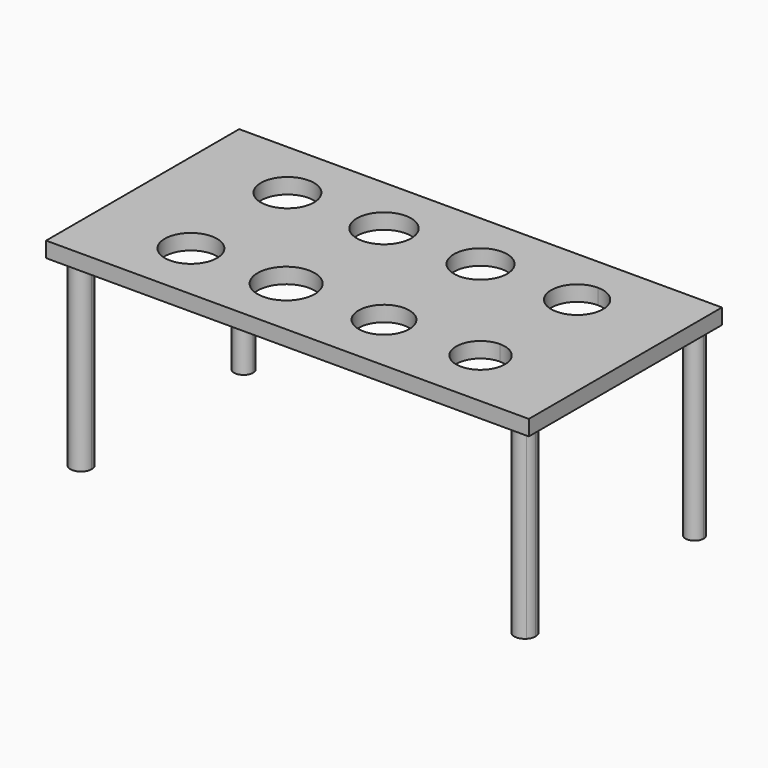
from build123d import *

# Parameters (mm, degrees)
F0_R     = 108.362779
F0_R_2   = 118.348055
F0_R_3   = 105.043241
F0_R_4   = 109.9634
F0_R_5   = 112.348658
F0_R_6   = 110.295193
F1_DEPTH = 64
F3_DEPTH = 766


with BuildPart() as f1:
    # F0 (on Top) → F1 (new body)
    with BuildSketch(Plane.XY):
        with BuildLine():
            Line((805.421073, 492.35415), (-794.578927, 492.35415))
            Line((-794.578927, 492.35415), (-794.578927, -507.64585))
            Line((-794.578927, -507.64585), (805.421073, -507.64585))
            Line((805.421073, -507.64585), (805.421073, -358.637687))
            ThreePointArc((805.421073, -358.637687), (704.429236, -257.64585), (805.421073, -156.654013))
            Line((805.421073, -156.654013), (805.421073, 135.004753))
            ThreePointArc((805.421073, 135.004753), (698.071676, 242.35415), (805.421073, 349.703548))
            Line((805.421073, 349.703548), (805.421073, 492.35415))
        make_face()
        with Locations((-394.578927, -257.64585)):
            Circle(F0_R, mode=Mode.SUBTRACT)
        with Locations((0, -257.64585)):
            Circle(F0_R_2, mode=Mode.SUBTRACT)
        with Locations((405.421073, -257.64585)):
            Circle(F0_R_3, mode=Mode.SUBTRACT)
        with Locations((-394.578927, 242.35415)):
            Circle(F0_R_4, mode=Mode.SUBTRACT)
        with Locations((5.421073, 242.35415)):
            Circle(F0_R_5, mode=Mode.SUBTRACT)
        with Locations((405.421073, 242.35415)):
            Circle(F0_R_6, mode=Mode.SUBTRACT)
        with BuildLine():
            Line((1205.421073, 492.35415), (805.421073, 492.35415))
            Line((805.421073, 492.35415), (805.421073, 349.703548))
            ThreePointArc((805.421073, 349.703548), (881.32856, 318.261637), (912.770471, 242.35415))
            ThreePointArc((912.770471, 242.35415), (881.32856, 166.446663), (805.421073, 135.004753))
            Line((805.421073, 135.004753), (805.421073, -156.654013))
            ThreePointArc((805.421073, -156.654013), (876.833086, -186.233837), (906.412911, -257.64585))
            ThreePointArc((906.412911, -257.64585), (876.833086, -329.057863), (805.421073, -358.637687))
            Line((805.421073, -358.637687), (805.421073, -507.64585))
            Line((805.421073, -507.64585), (1205.421073, -507.64585))
            Line((1205.421073, -507.64585), (1205.421073, 492.35415))
        make_face()
    extrude(amount=F1_DEPTH)

    # F2 (on face) → F3 (join)
    with BuildSketch(Plane(origin=(0, 0, 0), x_dir=(1, 0, 0), z_dir=(0, 0, -1))):
        with BuildLine():
            ThreePointArc((1178.770622, 439.583629), (1175.577452, 456.028556), (1166.462017, 470.083478))
            ThreePointArc((1166.462017, 470.083478), (1094.07873, 423.138702), (1178.770622, 439.583629))
        make_face()
        with BuildLine():
            ThreePointArc((1175.233859, -435.101897), (1102.844727, -422.241994), (1166.375205, -459.247966))
            ThreePointArc((1166.375205, -459.247966), (1172.949302, -447.961799), (1175.233859, -435.101897))
        make_face()
        with BuildLine():
            ThreePointArc((-674.628692, 421.169162), (-700.604043, 461.4775), (-748.043113, 454.476385))
            ThreePointArc((-748.043113, 454.476385), (-737.178841, 380.860824), (-674.628692, 421.169162))
        make_face()
        with BuildLine():
            ThreePointArc((-688.795403, -432.032824), (-742.253911, -395.367061), (-757.205871, -458.443436))
            ThreePointArc((-757.205871, -458.443436), (-713.94347, -468.698586), (-688.795403, -432.032824))
        make_face()
    extrude(amount=F3_DEPTH)


solid = f1.part
